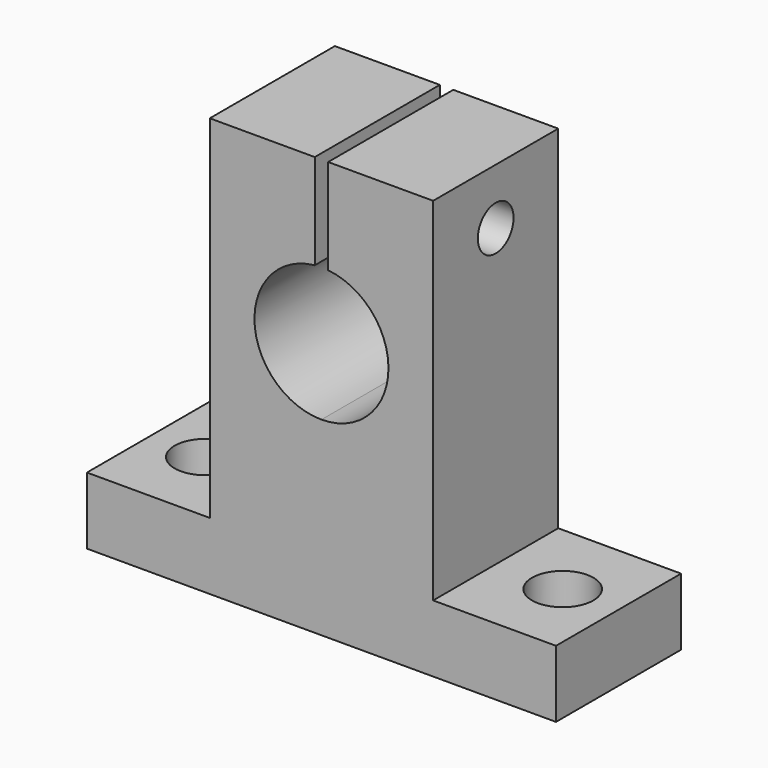
from build123d import *

# Parameters (mm, degrees)
OBJ1_R                     = 2.75
OBJ1_DEPTH                 = 8
OBJ2                     = 2.75
OBJ3                 = 8
OBJ4_PLACEMENT_ANGLE        = 90
TBOLT_SHAFT_R                    = 2
TBOLT_SHAFT_DEPTH                = 22
TBOLT_SHAFT_ROLL_ANGLE           = 90
UP_SEP_W                         = 16
UP_SEP_H                         = 1.2
UP_SEP_DEPTH                     = 15.5
SHAFT_HOLE_R                     = 6
SHAFT_HOLE_DEPTH                 = 16
SHAFT_HOLE_PITCH_ANGLE           = 90
TBOLT_HEAD_R                     = 3.85
TBOLT_HEAD_DEPTH                 = 5.4
TBOLT_HEAD_ROLL_ANGLE            = 90
SIDE_BOX_L_W                     = 14
SIDE_BOX_L_H                     = 11
SIDE_BOX_L_DEPTH                 = 31.5
SIDE_BOX_R_W                     = 14
SIDE_BOX_R_H                     = 11
SIDE_BOX_R_DEPTH                 = 31.5
TOTAL_BOX_W                      = 14
TOTAL_BOX_H                      = 42
TOTAL_BOX_DEPTH                  = 37.5
SK_SHAPE_W_HOLES_PLACEMENT_ANGLE = 90


with BuildPart() as obj1:
    # obj1 → obj1 (new body)
    with BuildSketch(Plane(origin=(7, -16, -1), x_dir=(1, 0, 0), z_dir=(0, 0, 1))):
        Circle(OBJ1_R)
    extrude(amount=OBJ1_DEPTH)


with BuildPart() as obj4:
    with BuildSketch(Plane(origin=(7, 16, -1), x_dir=(1, 0, 0), z_dir=(0, 0, 1))):
        Circle(OBJ2)
    extrude(amount=OBJ3)

    # obj4: union obj1
    add(obj1.part)


with BuildPart() as obj4_1:
    # obj4 placement: moved
    add(obj4.part.moved(Location((0, -7, 0))).rotate(Axis((0, -7, 0), (0, 0, 1)), OBJ4_PLACEMENT_ANGLE))


with BuildPart() as tbolt_shaft:
    # tbolt_shaft → tbolt_shaft (new body)
    with BuildSketch(Plane.XY):
        Circle(TBOLT_SHAFT_R)
    extrude(amount=TBOLT_SHAFT_DEPTH)


with BuildPart() as tbolt_shaft_1:
    # tbolt_shaft roll: moved
    add(tbolt_shaft.part.rotate(Axis((0, 0, 0), (1, 0, 0)), TBOLT_SHAFT_ROLL_ANGLE))


with BuildPart() as tbolt_shaft_2:
    # tbolt_shaft placement: moved
    add(tbolt_shaft_1.part.moved(Location((7, 11, 32.5))))


with BuildPart() as up_sep:
    # up_sep → up_sep (new body)
    with BuildSketch(Plane(origin=(-1, -0.6, 24), x_dir=(1, 0, 0), z_dir=(0, 0, 1))):
        with Locations((8, 0.6)):
            Rectangle(UP_SEP_W, UP_SEP_H)
    extrude(amount=UP_SEP_DEPTH)


with BuildPart() as shaft_hole:
    # shaft_hole → shaft_hole (new body)
    with BuildSketch(Plane.XY):
        Circle(SHAFT_HOLE_R)
    extrude(amount=SHAFT_HOLE_DEPTH)


with BuildPart() as shaft_hole_1:
    # shaft_hole pitch: moved
    add(shaft_hole.part.rotate(Axis((0, 0, 0), (0, 1, 0)), SHAFT_HOLE_PITCH_ANGLE))


with BuildPart() as shaft_hole_2:
    # shaft_hole placement: moved
    add(shaft_hole_1.part.moved(Location((-1, 0, 23))))


with BuildPart() as fuse_shaft_holes:
    # tbolt_head → tbolt_head (new body)
    with BuildSketch(Plane.XY):
        Circle(TBOLT_HEAD_R)
    extrude(amount=TBOLT_HEAD_DEPTH)


with BuildPart() as fuse_shaft_holes_1:
    # tbolt_head roll: moved
    add(fuse_shaft_holes.part.rotate(Axis((0, 0, 0), (1, 0, 0)), TBOLT_HEAD_ROLL_ANGLE))


with BuildPart() as fuse_shaft_holes_2:
    # tbolt_head placement: moved
    add(fuse_shaft_holes_1.part.moved(Location((7, 11, 32.5))))

    # fuse_shaft_holes: union tbolt_shaft, up_sep, shaft_hole
    add(tbolt_shaft_2.part)
    add(up_sep.part)
    add(shaft_hole_2.part)


with BuildPart() as side_box_l:
    # side_box_l → side_box_l (new body)
    with BuildSketch(Plane(origin=(0, -21, 6), x_dir=(1, 0, 0), z_dir=(0, 0, 1))):
        with Locations((7, 5.5)):
            Rectangle(SIDE_BOX_L_W, SIDE_BOX_L_H)
    extrude(amount=SIDE_BOX_L_DEPTH)


with BuildPart() as side_boxes:
    # side_box_r → side_box_r (new body)
    with BuildSketch(Plane(origin=(0, 10, 6), x_dir=(1, 0, 0), z_dir=(0, 0, 1))):
        with Locations((7, 5.5)):
            Rectangle(SIDE_BOX_R_W, SIDE_BOX_R_H)
    extrude(amount=SIDE_BOX_R_DEPTH)

    # side_boxes: union side_box_l
    add(side_box_l.part)


with BuildPart() as sk12_fr:
    # total_box → total_box (new body)
    with BuildSketch(Plane(origin=(0, -21, 0), x_dir=(1, 0, 0), z_dir=(0, 0, 1))):
        with Locations((7, 21)):
            Rectangle(TOTAL_BOX_W, TOTAL_BOX_H)
    extrude(amount=TOTAL_BOX_DEPTH)

    # sk_shape: cut side_boxes
    add(side_boxes.part, mode=Mode.SUBTRACT)

    # sk_shape_w_holes: cut fuse_shaft_holes
    add(fuse_shaft_holes_2.part, mode=Mode.SUBTRACT)


with BuildPart() as sk12_fr_1:
    # sk_shape_w_holes placement: moved
    add(sk12_fr.part.moved(Location((0, -7, 0))).rotate(Axis((0, -7, 0), (0, 0, 1)), SK_SHAPE_W_HOLES_PLACEMENT_ANGLE))

    # sk12_fr: cut obj4
    add(obj4_1.part, mode=Mode.SUBTRACT)


with BuildPart() as sk12_fr_2:
    # sk12_fr placement: moved
    add(sk12_fr_1.part.moved(Location((96.9, 286, 30))))


solid = sk12_fr_2.part
